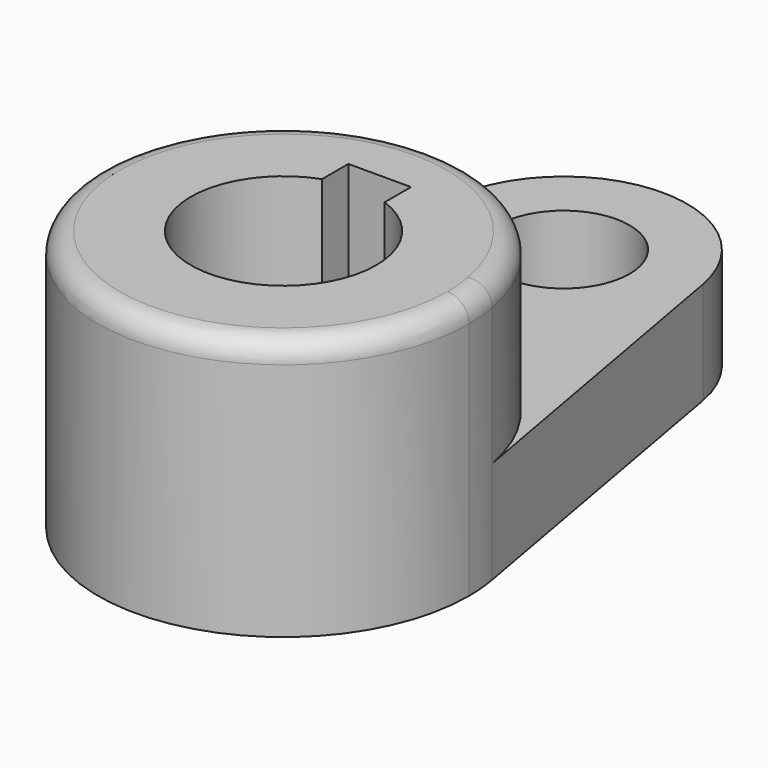
from build123d import *

# Parameters (mm, degrees)
F1_DEPTH = 40.2336
F2_R     = 3.302
F0_R     = 10.16
F3_DEPTH = 15.7734


with BuildPart() as f1:
    # F0 (on Top) → F1 (new body)
    with BuildSketch(Plane.XY):
        with BuildLine():
            ThreePointArc((-28.126541, 5.042647), (-2.531275, -28.462665), (28.575, 0))
            ThreePointArc((28.575, 0), (28.462665, 2.531275), (28.126541, 5.042647))
            ThreePointArc((28.126541, 5.042647), (0, 28.575), (-28.126541, 5.042647))
        make_face()
        with BuildLine():
            ThreePointArc((4.826, 13.447765), (11.685122, 8.22135), (14.2875, 0))
            ThreePointArc((14.2875, 0), (-8.22135, -11.685122), (-4.826, 13.447765))
            Line((-4.826, 13.447765), (-4.826, 18.5293))
            Line((-4.826, 18.5293), (0, 18.5293))
            Line((0, 18.5293), (4.826, 18.5293))
            Line((4.826, 18.5293), (4.826, 13.447765))
        make_face(mode=Mode.SUBTRACT)
    extrude(amount=F1_DEPTH)

    # F2
    f2_edges = [f1.edges().sort_by_distance(p)[0] for p in [
        (-28.575, 0, 40.2336),
    ]]
    fillet(f2_edges, radius=F2_R)

    # F0 (on Top) → F3 (join)
    with BuildSketch(Plane.XY):
        with BuildLine():
            ThreePointArc((-28.126541, 5.042647), (0, 28.575), (28.126541, 5.042647))
            Line((28.126541, 5.042647), (18.751028, 57.336765))
            ThreePointArc((18.751028, 57.336765), (18.97511, 55.662516), (19.05, 53.975))
            ThreePointArc((19.05, 53.975), (-1.687516, 34.99989), (-18.751028, 57.336765))
            Line((-18.751028, 57.336765), (-28.126541, 5.042647))
        make_face()
        with BuildLine():
            ThreePointArc((19.05, 53.975), (18.97511, 55.662516), (18.751028, 57.336765))
            ThreePointArc((18.751028, 57.336765), (0, 73.025), (-18.751028, 57.336765))
            ThreePointArc((-18.751028, 57.336765), (-1.687516, 34.99989), (19.05, 53.975))
        make_face()
        with Locations((0, 53.975)):
            Circle(F0_R, mode=Mode.SUBTRACT)
    extrude(amount=F3_DEPTH)


solid = f1.part
